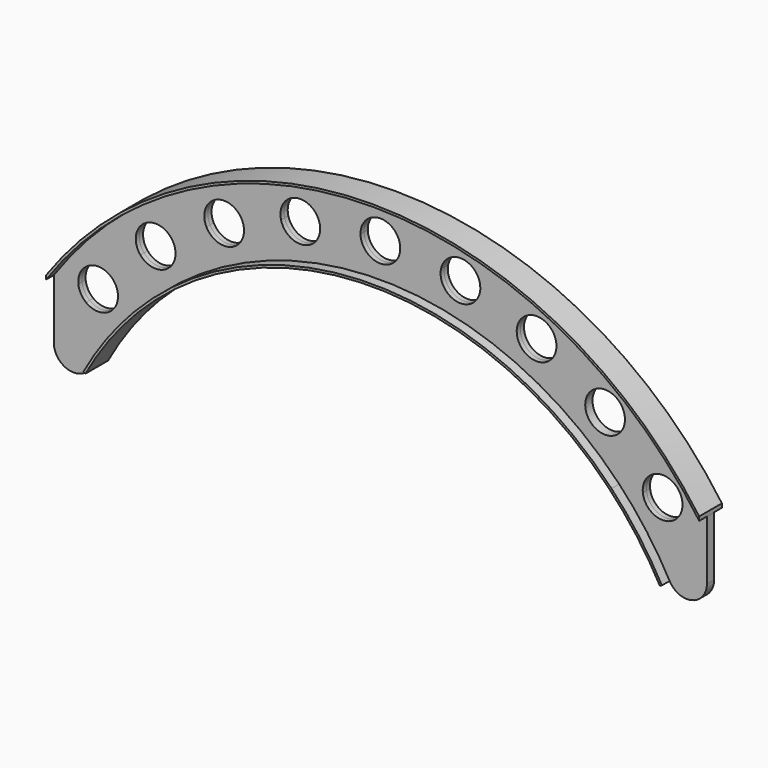
from build123d import *

# Parameters (mm, degrees)
F1_DEPTH = 0.8
F2_DEPTH = 2.5
F3_DEPTH = 2.5


with BuildPart() as f1:
    # F0 (on Front) → F1 (new body, symmetric)
    with BuildSketch(Plane.XZ):
        with BuildLine():
            ThreePointArc((57.5, 0), (0, 30), (-57.5, 0))
            Line((-57.5, 0), (-53.1707682947, 0))
            ThreePointArc((-53.1707682947, 0), (-51.3277212324, 3.4870326892), (-47.4085305315, 3.044128976))
            ThreePointArc((-47.4085305315, 3.044128976), (-44.9067619438, 5.6421655989), (-42.2628354131, 8.0953865146))
            ThreePointArc((-42.2628354131, 8.0953865146), (-41.7296173597, 13.0838243248), (-36.7575952083, 12.4146240518))
            ThreePointArc((-36.7575952083, 12.4146240518), (-33.7456732845, 14.3988031479), (-30.6269252328, 16.2104463109))
            ThreePointArc((-30.6269252328, 16.2104463109), (-29.0096045557, 20.9594574824), (-24.3065150716, 19.2130948101))
            ThreePointArc((-24.3065150716, 19.2130948101), (-20.9319439017, 20.4862443612), (-17.4911100586, 21.5675874266))
            ThreePointArc((-17.4911100586, 21.5675874266), (-14.868892468, 25.8445966839), (-10.6650619849, 23.1065969491))
            ThreePointArc((-10.6650619849, 23.1065969491), (-7.0931058293, 23.6063664791), (-3.4986955646, 23.9044523887))
            ThreePointArc((-3.4986955646, 23.9044523887), (-0.0477782576, 27.499673876), (3.5, 24))
            ThreePointArc((3.5, 24), (3.499673876, 23.9522217424), (3.4986955646, 23.9044523887))
            ThreePointArc((3.4986955646, 23.9044523887), (7.0931058293, 23.6063664791), (10.6650619849, 23.1065969491))
            ThreePointArc((10.6650619849, 23.1065969491), (14.4388537458, 25.9137708277), (17.5991008087, 22.430300153))
            ThreePointArc((17.5991008087, 22.430300153), (17.5719981851, 21.9955774683), (17.4911100586, 21.5675874266))
            ThreePointArc((17.4911100586, 21.5675874266), (20.9319439017, 20.4862443612), (24.3065150716, 19.2130948101))
            ThreePointArc((24.3065150716, 19.2130948101), (28.2308321663, 21.2225609326), (31.0077205603, 17.7980741674))
            ThreePointArc((31.0077205603, 17.7980741674), (30.9111905802, 16.9817459105), (30.6269252328, 16.2104463109))
            ThreePointArc((30.6269252328, 16.2104463109), (33.7456732845, 14.3988031479), (36.7575952083, 12.4146240518))
            ThreePointArc((36.7575952083, 12.4146240518), (40.6667831089, 13.6536244822), (43.0691934101, 10.3301779499))
            ThreePointArc((43.0691934101, 10.3301779499), (42.8614378581, 9.1422694961), (42.2628354131, 8.0953865146))
            ThreePointArc((42.2628354131, 8.0953865146), (44.9067619438, 5.6421655989), (47.4085305315, 3.044128976))
            ThreePointArc((47.4085305315, 3.044128976), (51.1514161203, 3.5739307074), (53.1928278924, 0.3923398504))
            ThreePointArc((53.1928278924, 0.3923398504), (53.1873086412, 0.1958600906), (53.1707682947, 0))
            Line((53.1707682947, 0), (57.5, 0))
        make_face()
        with BuildLine():
            ThreePointArc((-42.2628354131, 8.0953865146), (-44.9067619438, 5.6421655989), (-47.4085305315, 3.044128976))
            ThreePointArc((-47.4085305315, 3.044128976), (-46.5112370354, 1.8509280782), (-46.1928278924, 0.3923398504))
            ThreePointArc((-46.1928278924, 0.3923398504), (-46.1983471436, 0.1958600906), (-46.2148874901, 0))
            Line((-46.2148874901, 0), (-42.0446191563, 0))
            ThreePointArc((-42.0446191563, 0), (0, 18), (42.0446191563, 0))
            Line((42.0446191563, 0), (46.2148874901, 0))
            ThreePointArc((46.2148874901, 0), (46.4343733023, 1.6700227862), (47.4085305315, 3.044128976))
            ThreePointArc((47.4085305315, 3.044128976), (44.9067619438, 5.6421655989), (42.2628354131, 8.0953865146))
            ThreePointArc((42.2628354131, 8.0953865146), (37.4087694605, 7.576531575), (36.7575952083, 12.4146240518))
            ThreePointArc((36.7575952083, 12.4146240518), (33.7456732845, 14.3988031479), (30.6269252328, 16.2104463109))
            ThreePointArc((30.6269252328, 16.2104463109), (26.0058365648, 14.6366908524), (24.3065150716, 19.2130948101))
            ThreePointArc((24.3065150716, 19.2130948101), (20.9319439017, 20.4862443612), (17.4911100586, 21.5675874266))
            ThreePointArc((17.4911100586, 21.5675874266), (13.3293091493, 19.016003622), (10.6650619849, 23.1065969491))
            ThreePointArc((10.6650619849, 23.1065969491), (7.0931058293, 23.6063664791), (3.4986955646, 23.9044523887))
            ThreePointArc((3.4986955646, 23.9044523887), (0, 20.5), (-3.4986955646, 23.9044523887))
            ThreePointArc((-3.4986955646, 23.9044523887), (-7.0931058293, 23.6063664791), (-10.6650619849, 23.1065969491))
            ThreePointArc((-10.6650619849, 23.1065969491), (-10.615630134, 22.7700530901), (-10.5991008087, 22.430300153))
            ThreePointArc((-10.5991008087, 22.430300153), (-13.664378124, 18.9574027765), (-17.4911100586, 21.5675874266))
            ThreePointArc((-17.4911100586, 21.5675874266), (-20.9319439017, 20.4862443612), (-24.3065150716, 19.2130948101))
            ThreePointArc((-24.3065150716, 19.2130948101), (-24.083233795, 18.5211857735), (-24.0077205603, 17.7980741674))
            ThreePointArc((-24.0077205603, 17.7980741674), (-26.6913923033, 14.3946041474), (-30.6269252328, 16.2104463109))
            ThreePointArc((-30.6269252328, 16.2104463109), (-33.7456732845, 14.3988031479), (-36.7575952083, 12.4146240518))
            ThreePointArc((-36.7575952083, 12.4146240518), (-36.2457468778, 11.4277676487), (-36.0691934101, 10.3301779499))
            ThreePointArc((-36.0691934101, 10.3301779499), (-38.3812849563, 7.0379335019), (-42.2628354131, 8.0953865146))
        make_face()
        with BuildLine():
            Line((57.5, -10.454995503), (57.5, 0))
            Line((57.5, 0), (53.1707682947, 0))
            ThreePointArc((53.1707682947, 0), (52.7417358798, -1.3264271742), (51.8289903893, -2.3801698046))
            ThreePointArc((51.8289903893, -2.3801698046), (48.3266675572, -2.8300204551), (46.2148874901, 0))
            Line((46.2148874901, 0), (42.0446191563, 0))
            ThreePointArc((42.0446191563, 0), (46.8828961162, -5.7808766759), (50.9320257017, -12.1394935603))
            ThreePointArc((50.9320257017, -12.1394935603), (54.8695084692, -13.845269094), (57.5, -10.454995503))
        make_face()
        with BuildLine():
            Line((-53.1707682947, 0), (-57.5, 0))
            Line((-57.5, 0), (-57.5, -10.454995503))
            ThreePointArc((-57.5, -10.454995503), (-54.8695084692, -13.845269094), (-50.9320257017, -12.1394935603))
            ThreePointArc((-50.9320257017, -12.1394935603), (-46.8828961162, -5.7808766759), (-42.0446191563, 0))
            Line((-42.0446191563, 0), (-46.2148874901, 0))
            ThreePointArc((-46.2148874901, 0), (-48.3266675572, -2.8300204551), (-51.8289903893, -2.3801698046))
            ThreePointArc((-51.8289903893, -2.3801698046), (-52.7417358798, -1.3264271742), (-53.1707682947, 0))
        make_face()
    extrude(amount=F1_DEPTH, both=True)


with BuildPart() as f2:
    # F0 (on Front) → F2 (new body, symmetric)
    with BuildSketch(Plane.XZ):
        with BuildLine():
            Line((-57.5, 0.6951901587), (-57.5, 0))
            ThreePointArc((-57.5, 0), (0, 30), (57.5, 0))
            Line((57.5, 0), (57.5, 0.6951901587))
            ThreePointArc((57.5, 0.6951901587), (0, 30.4), (-57.5, 0.6951901587))
        make_face()
    extrude(amount=F2_DEPTH, both=True)


with BuildPart() as f3:
    # F0 (on Front) → F3 (new body, symmetric)
    with BuildSketch(Plane.XZ):
        with BuildLine():
            ThreePointArc((42.0446191563, 0), (0, 18), (-42.0446191563, 0))
            Line((-42.0446191563, 0), (-41.4900791355, 0))
            ThreePointArc((-41.4900791355, 0), (0, 17.6), (41.4900791355, 0))
            Line((41.4900791355, 0), (42.0446191563, 0))
        make_face()
        with BuildLine():
            Line((50.5814000676, -12.332007624), (50.9320257017, -12.1394935603))
            ThreePointArc((50.9320257017, -12.1394935603), (46.8828961162, -5.7808766759), (42.0446191563, 0))
            Line((42.0446191563, 0), (41.4900791355, 0))
            ThreePointArc((41.4900791355, 0), (46.4468397598, -5.8629352778), (50.5814000676, -12.332007624))
        make_face()
        with BuildLine():
            ThreePointArc((-42.0446191563, 0), (-46.8828961162, -5.7808766759), (-50.9320257017, -12.1394935603))
            Line((-50.9320257017, -12.1394935603), (-50.5814000676, -12.332007624))
            ThreePointArc((-50.5814000676, -12.332007624), (-46.4468397598, -5.8629352778), (-41.4900791355, 0))
            Line((-41.4900791355, 0), (-42.0446191563, 0))
        make_face()
    extrude(amount=F3_DEPTH, both=True)


solid = Compound([f1.part, f2.part, f3.part])
